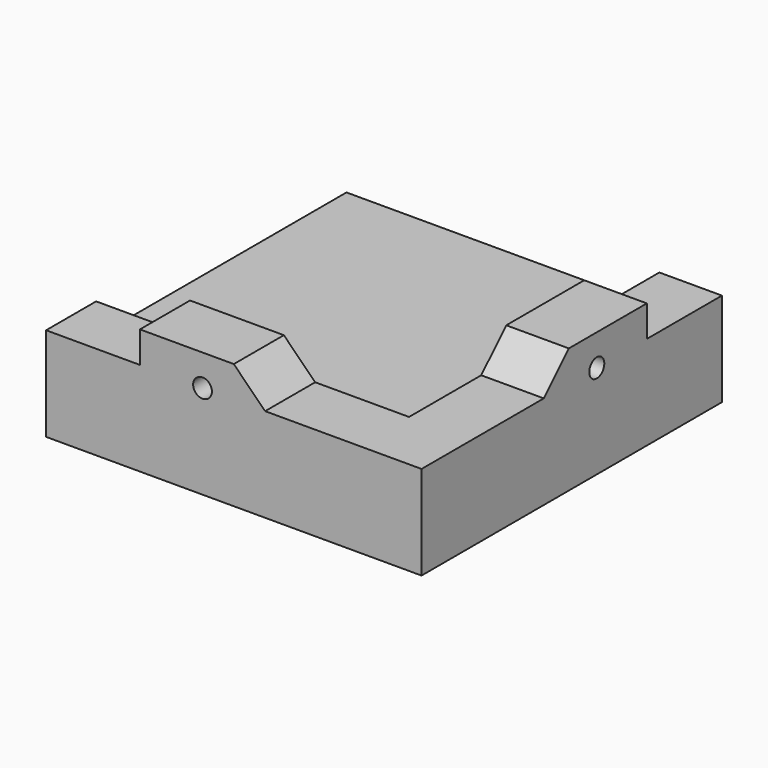
from build123d import *

# Parameters (mm, degrees)
F1_DEPTH  = 15
F3_DEPTH  = 50
F4_DEPTH  = 5
F6_DEPTH  = 34.1
F8_DEPTH  = 5
F10_DEPTH = 37.3
F11_DEPTH = 10
F12_DEPTH = 10
F13_DEPTH = 25
F14_DEPTH = 25


with BuildPart() as f1:
    # F0 (on Top) → F1 (new body)
    with BuildSketch(Plane.XY):
        Polygon((50, 0), (0, 0), (0, -10), (60, -10), (60, 50), (50, 50), align=None)
    extrude(amount=F1_DEPTH)

    # F2 (on face) → F3 (join)
    with BuildSketch(Plane(origin=(50, 0, 0), x_dir=(0, -1, 0), z_dir=(-1, 0, 0))):
        Polygon((-50, 10), (-50, 5), (0, 5), (0, 10), (-10, 10), (-14.4219835103, 10), (-35, 10), (-40, 10), align=None)
    extrude(amount=F3_DEPTH)

    # F2 (on face) → F4 (join)
    with BuildSketch(Plane(origin=(50, 0, 0), x_dir=(0, -1, 0), z_dir=(-1, 0, 0))):
        Polygon((-40, 15), (-40, 10), (-35, 10), (-35, 15), (-37.5, 15), align=None)
        Polygon((-14.4219835103, 10), (-10, 10), (-10, 15), (-12.5, 15), (-14.4219835103, 15), align=None)
    extrude(amount=F4_DEPTH)

    # F5 (on face) → F6 (cut)
    with BuildSketch(Plane(origin=(0, 40, 0), x_dir=(-1, 0, 0), z_dir=(0, 1, 0))):
        Polygon((-45, 15), (-50, 15), (-45, 10), align=None)
    extrude(amount=-F6_DEPTH, mode=Mode.SUBTRACT)

    # F7 (on face) → F8 (join)
    with BuildSketch(Plane(origin=(0, 0, 0), x_dir=(-1, 0, 0), z_dir=(0, 1, 0))):
        Polygon((-40, 15), (-40, 10), (-35, 10), (-35, 15), (-37.5, 15), align=None)
        Polygon((-15, 15), (-15, 10), (-10, 10), (-10, 15), (-12.5, 15), align=None)
    extrude(amount=F8_DEPTH)

    # F9 (on face) → F10 (cut)
    with BuildSketch(Plane(origin=(10, 0, 0), x_dir=(0, -1, 0), z_dir=(-1, 0, 0))):
        Polygon((-5, 15), (-5, 10), (0, 15), align=None)
    extrude(amount=-F10_DEPTH, mode=Mode.SUBTRACT)

    # F2 (on face) → F11 (join)
    with BuildSketch(Plane(origin=(50, 0, 0), x_dir=(0, -1, 0), z_dir=(-1, 0, 0))):
        with BuildLine():
            Line((-35, 20), (-35, 15))
            Line((-35, 15), (-26.5, 15))
            ThreePointArc((-26.5, 15), (-25, 16.5), (-23.5, 15))
            Line((-23.5, 15), (-14.4219835103, 15))
            Line((-14.4219835103, 15), (-19.4219835103, 20))
            Line((-19.4219835103, 20), (-35, 20))
        make_face()
    extrude(amount=-F11_DEPTH)

    # F7 (on face) → F12 (join)
    with BuildSketch(Plane(origin=(0, 0, 0), x_dir=(-1, 0, 0), z_dir=(0, 1, 0))):
        with BuildLine():
            Line((-30, 20), (-35, 15))
            Line((-35, 15), (-26.5, 15))
            ThreePointArc((-26.5, 15), (-25, 16.5), (-23.5, 15))
            Line((-23.5, 15), (-15, 15))
            Line((-15, 15), (-15, 20))
            Line((-15, 20), (-30, 20))
        make_face()
    extrude(amount=-F12_DEPTH)

    # F2 (on face) → F13 (cut)
    with BuildSketch(Plane(origin=(50, 0, 0), x_dir=(0, -1, 0), z_dir=(-1, 0, 0))):
        with BuildLine():
            Line((-23.5, 15), (-26.5, 15))
            ThreePointArc((-26.5, 15), (-25, 13.5), (-23.5, 15))
        make_face()
        with BuildLine():
            ThreePointArc((-23.5, 15), (-25, 16.5), (-26.5, 15))
            Line((-26.5, 15), (-23.5, 15))
        make_face()
    extrude(amount=-F13_DEPTH, mode=Mode.SUBTRACT)

    # F7 (on face) → F14 (cut)
    with BuildSketch(Plane(origin=(0, 0, 0), x_dir=(-1, 0, 0), z_dir=(0, 1, 0))):
        with BuildLine():
            ThreePointArc((-23.5, 15), (-25, 16.5), (-26.5, 15))
            Line((-26.5, 15), (-23.5, 15))
        make_face()
        with BuildLine():
            Line((-23.5, 15), (-26.5, 15))
            ThreePointArc((-26.5, 15), (-25, 13.5), (-23.5, 15))
        make_face()
    extrude(amount=-F14_DEPTH, mode=Mode.SUBTRACT)


solid = f1.part
